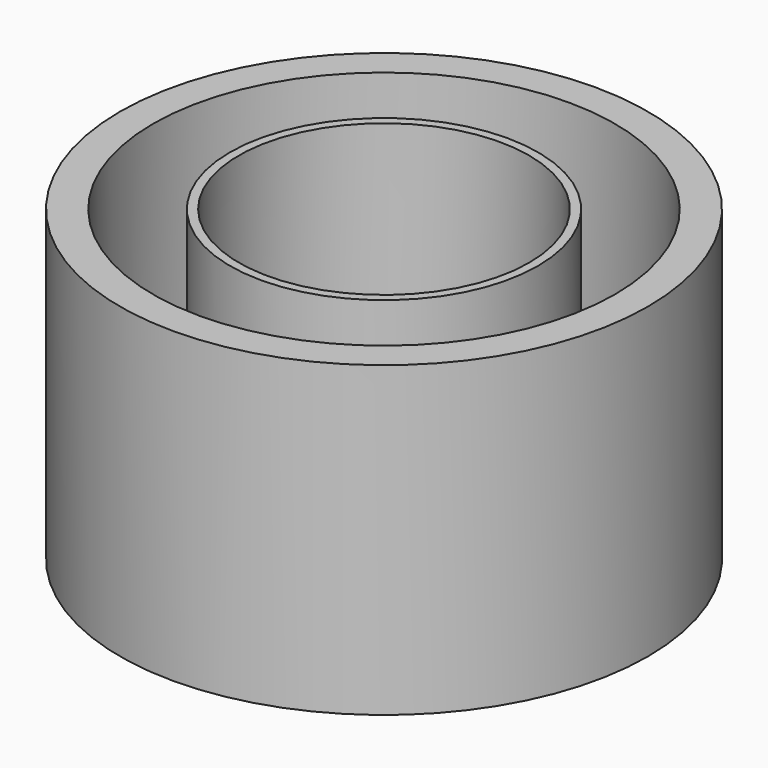
from build123d import *

# Parameters (mm, degrees)
F0_R     = 15.24
F0_R_2   = 13.335
F0_R_3   = 8.89
F0_R_4   = 8.382
F1_DEPTH = 5.08
F2_DEPTH = 17.78
F3_DEPTH = 17.78


with BuildPart() as f1:
    # F0 (on Top) → F1 (new body)
    with BuildSketch(Plane.XY):
        Circle(F0_R)
        Circle(F0_R_2, mode=Mode.SUBTRACT)
        Circle(F0_R_2)
        Circle(F0_R_3, mode=Mode.SUBTRACT)
        Circle(F0_R_3)
        Circle(F0_R_4, mode=Mode.SUBTRACT)
        Circle(F0_R_4)
    extrude(amount=F1_DEPTH)

    # F0 (on Top) → F2 (join)
    with BuildSketch(Plane.XY):
        Circle(F0_R)
        Circle(F0_R_2, mode=Mode.SUBTRACT)
    extrude(amount=F2_DEPTH)

    # F0 (on Top) → F3 (join)
    with BuildSketch(Plane.XY):
        Circle(F0_R_3)
        Circle(F0_R_4, mode=Mode.SUBTRACT)
    extrude(amount=F3_DEPTH)


solid = f1.part
